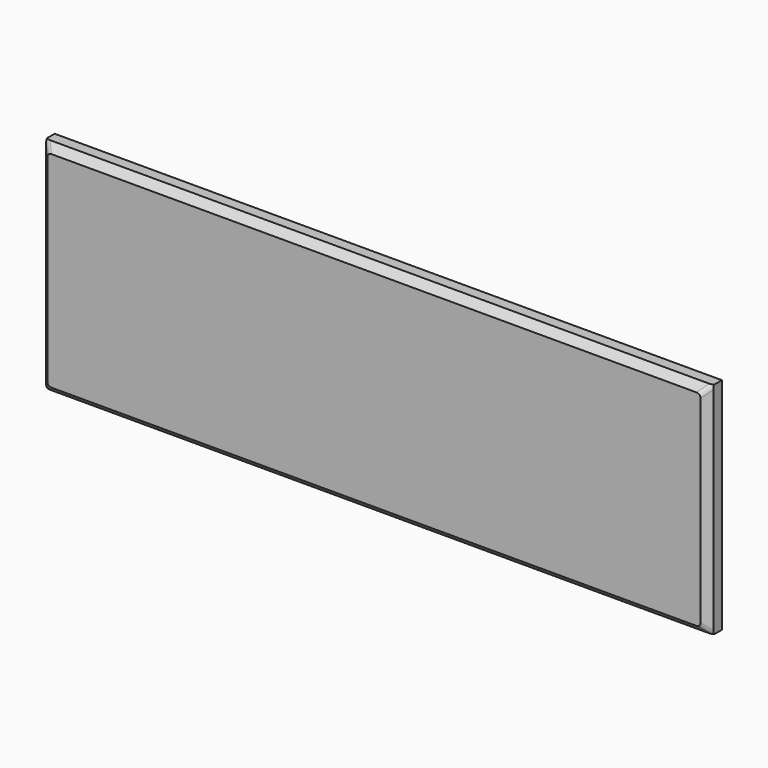
from build123d import *

# Parameters (mm, degrees)
F0_W     = 298.45
F0_H     = 98.298
F1_DEPTH = 8
F2_SIZE  = 3.175
F3_R     = 2.54


with BuildPart() as f1:
    # F0 (on Front) → F1 (new body)
    with BuildSketch(Plane.XZ):
        Rectangle(F0_W, F0_H)
    extrude(amount=F1_DEPTH)

    # F2
    f2_edges = [f1.edges().sort_by_distance(p)[0] for p in [
        (0, -8, 49.149),
        (-149.225, -8, 0),
        (0, -8, -49.149),
        (149.225, -8, 0),
    ]]
    chamfer(f2_edges, length=F2_SIZE)

    # F3
    f3_edges = [f1.edges().sort_by_distance(p)[0] for p in [
        (147.6375, -6.4125, 47.5615),
        (147.6375, -6.4125, -47.5615),
        (-147.6375, -6.4125, -47.5615),
        (-147.6375, -6.4125, 47.5615),
    ]]
    fillet(f3_edges, radius=F3_R)


solid = f1.part
